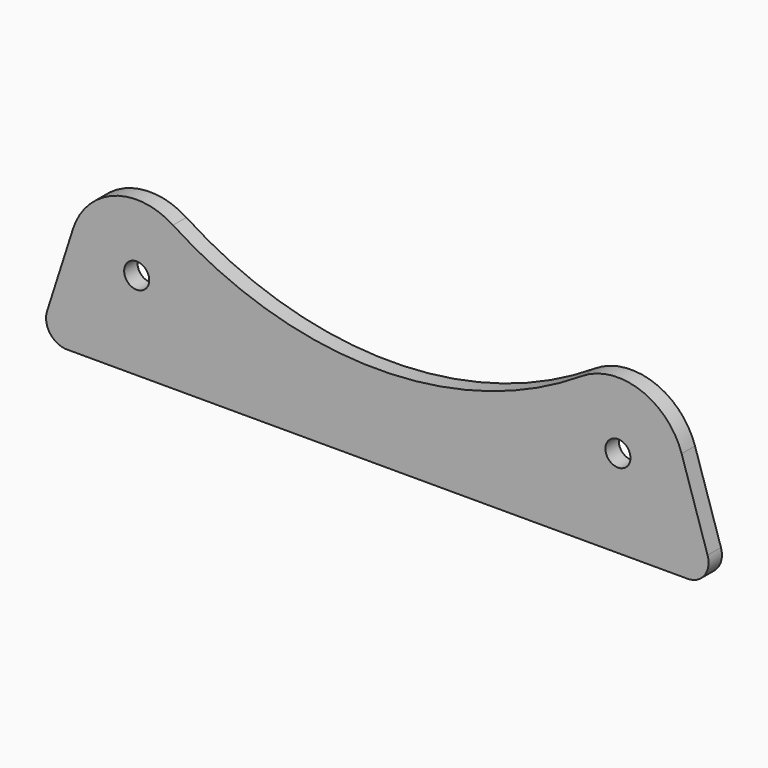
from build123d import *

# Parameters (mm, degrees)
F0_R     = 3
F1_DEPTH = 4


with BuildPart() as f1:
    # F0 (on Front) → F1 (new body)
    with BuildSketch(Plane.XZ):
        with BuildLine():
            ThreePointArc((48.885314, -75.566038), (0, -90), (-48.885314, -75.566038))
            ThreePointArc((-48.885314, -75.566038), (-62.959815, -73.932985), (-72.812289, -84.115676))
            Line((-72.812289, -84.115676), (-79.017923, -103.473649))
            ThreePointArc((-79.017923, -103.473649), (-78.295886, -107.946883), (-74.256595, -110))
            Line((-74.256595, -110), (32.693748, -110))
            Line((32.693748, -110), (61.95706, -110))
            Line((61.95706, -110), (74.256595, -110))
            ThreePointArc((74.256595, -110), (78.295886, -107.946883), (79.017923, -103.473649))
            Line((79.017923, -103.473649), (72.812289, -84.115676))
            ThreePointArc((72.812289, -84.115676), (62.959815, -73.932985), (48.885314, -75.566038))
        make_face()
        with Locations((-57.576037, -89)):
            Circle(F0_R, mode=Mode.SUBTRACT)
        with Locations((57.576037, -89)):
            Circle(F0_R, mode=Mode.SUBTRACT)
    extrude(amount=F1_DEPTH)


solid = f1.part
